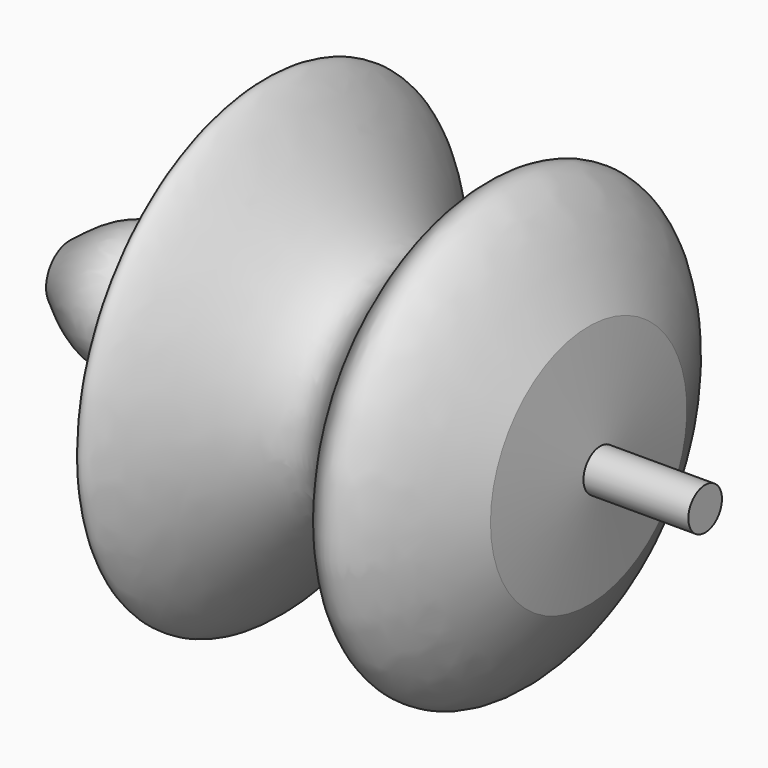
from build123d import *


with BuildPart() as f1:
    # F0 (on Top) → F1 (revolve)
    with BuildSketch(Plane.XY):
        with BuildLine():
            add(Edge.make_bspline(
                [(21.5457268059, -19.4112882018), (16.5296056887, -28.4739094746), (6.362659828, -46.8425209346), (-7.5070590722, -2.3047554212), (-36.267924602, -59.0023343356), (-26.1535022389, 5.032700973), (-48.8452650382, -13.9264613146), (-56.7166012228, -7.6992932929), (-60.5484470725, -4.667845089)],
                knots=[0, 0, 0, 0, 0.1669570457, 0.3383975794, 0.5265118709, 0.7268016045, 0.8670042654, 1, 1, 1, 1], degree=3))
            Line((21.5457268059, -19.4112882018), (23.3886558563, -3.3275331371))
            Line((23.3886558563, -3.3275331371), (39.9750322104, -3.3275331371))
            Line((39.9750322104, -3.3275331371), (39.9750322104, 0))
            Line((39.9750322104, 0), (-60.5484470725, 0))
            Line((-60.5484470725, 0), (-60.5484470725, -4.667845089))
        make_face()
    revolve(axis=Axis((-10.2867074311, 0, 0), (1, 0, 0)))


solid = f1.part
